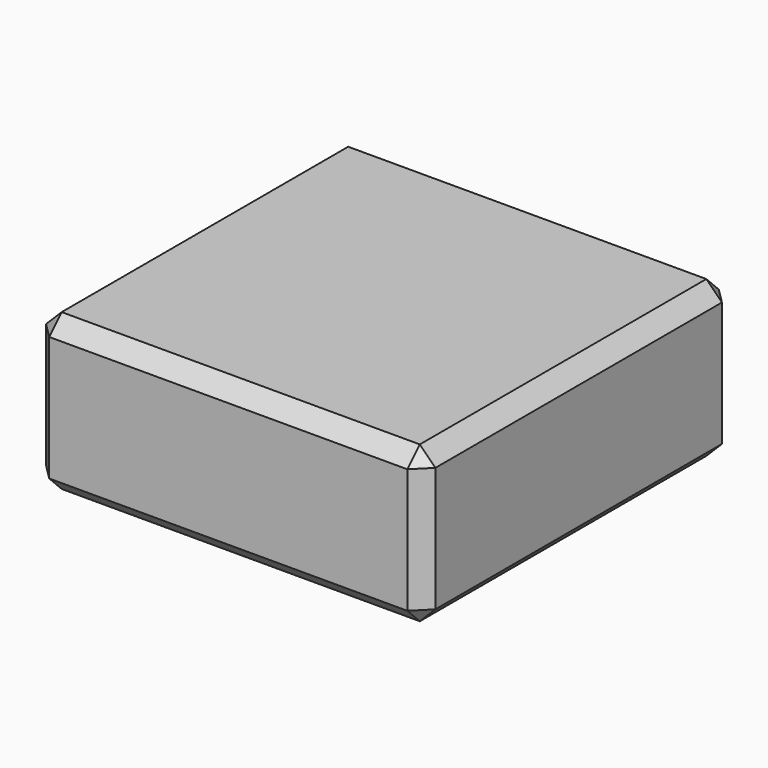
from build123d import *

# Parameters (mm, degrees)
F0_W     = 25
F0_H     = 10
F1_DEPTH = 12.5
F2_SIZE  = 1


with BuildPart() as f1:
    # F0 (on Front) → F1 (new body, symmetric)
    with BuildSketch(Plane.XZ):
        with Locations((-18.109543, 5)):
            Rectangle(F0_W, F0_H)
    extrude(amount=F1_DEPTH, both=True)

    # F2
    f2_edges = [f1.edges().sort_by_distance(p)[0] for p in [
        (-30.609543, -12.5, 5),
        (-5.609543, -12.5, 5),
        (-18.109543, -12.5, 10),
        (-18.109543, -12.5, 0),
        (-5.609543, 0, 0),
        (-5.609543, 0, 10),
        (-5.609543, 12.5, 5),
        (-30.609543, 12.5, 5),
        (-18.109543, 12.5, 10),
        (-18.109543, 12.5, 0),
        (-30.609543, 0, 10),
        (-30.609543, 0, 0),
    ]]
    chamfer(f2_edges, length=F2_SIZE)


solid = f1.part
